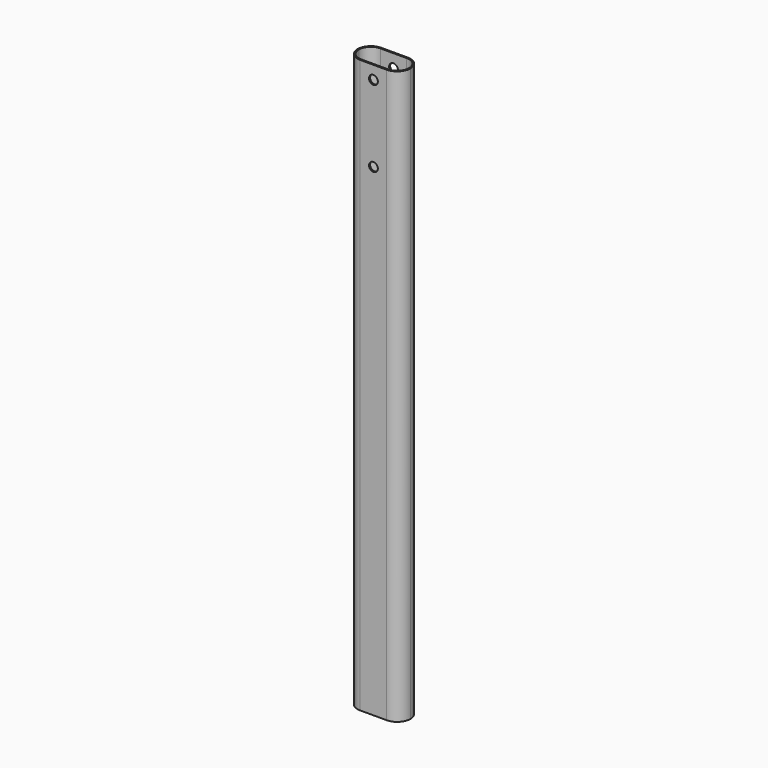
from build123d import *

# Parameters (mm, degrees)
F1_DEPTH = 650
F2_R     = 5
F3_DEPTH = 40


with BuildPart() as f1:
    # F0 (on Top) → F1 (new body)
    with BuildSketch(Plane.XY):
        with BuildLine():
            Line((15, 15), (-15, 15))
            ThreePointArc((-15, 15), (-25.606602, 10.606602), (-30, 0))
            ThreePointArc((-30, 0), (-25.606602, -10.606602), (-15, -15))
            Line((-15, -15), (15, -15))
            ThreePointArc((15, -15), (25.606602, -10.606602), (30, 0))
            ThreePointArc((30, 0), (25.606602, 10.606602), (15, 15))
        make_face()
        with BuildLine():
            ThreePointArc((-28.5, 0), (-24.545942, 9.545942), (-15, 13.5))
            Line((-15, 13.5), (15, 13.5))
            ThreePointArc((15, 13.5), (24.545942, 9.545942), (28.5, 0))
            ThreePointArc((28.5, 0), (24.545942, -9.545942), (15, -13.5))
            Line((15, -13.5), (-15, -13.5))
            ThreePointArc((-15, -13.5), (-24.545942, -9.545942), (-28.5, 0))
        make_face(mode=Mode.SUBTRACT)
    extrude(amount=-F1_DEPTH)

    # F2 (on face) → F3 (cut)
    with BuildSketch(Plane(origin=(0, 15, 0), x_dir=(-1, 0, 0), z_dir=(0, 1, 0))):
        with Locations((0, -15)):
            Circle(F2_R)
        with Locations((0, -102)):
            Circle(F2_R)
    extrude(amount=-F3_DEPTH, mode=Mode.SUBTRACT)


solid = f1.part
